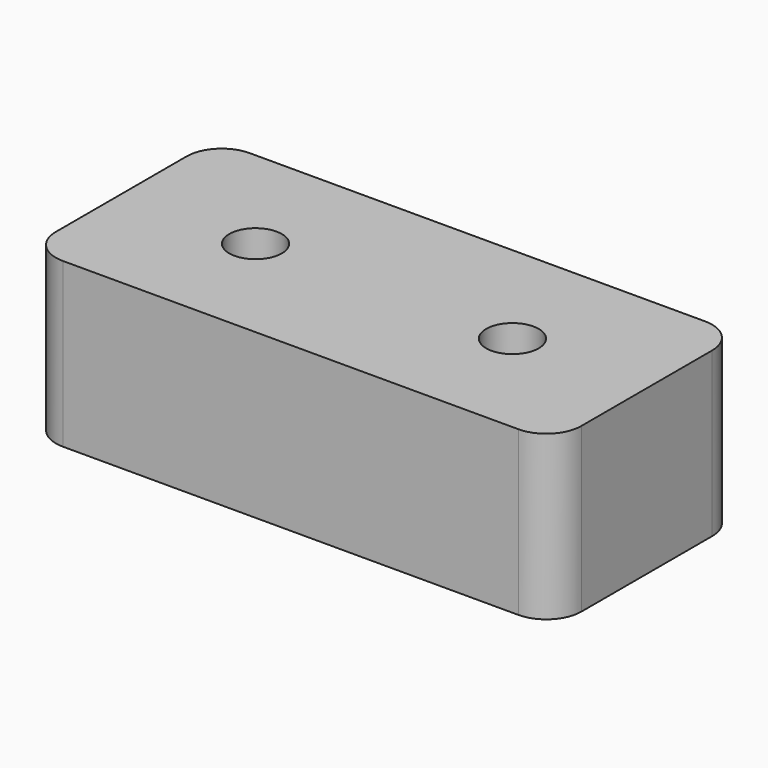
from build123d import *

# Parameters (mm, degrees)
F0_W     = 45
F0_H     = 20
F0_R     = 2.25
F1_DEPTH = 14
F2_R     = 3


with BuildPart() as f1:
    # F0 (on Top) → F1 (new body)
    with BuildSketch(Plane.XY):
        Rectangle(F0_W, F0_H)
        with Locations((-11, 0)):
            Circle(F0_R, mode=Mode.SUBTRACT)
        with Locations((11, 0)):
            Circle(F0_R, mode=Mode.SUBTRACT)
    extrude(amount=F1_DEPTH)

    # F2
    f2_edges = [f1.edges().sort_by_distance(p)[0] for p in [
        (22.5, -10, 7),
        (22.5, 10, 7),
        (-22.5, 10, 7),
        (-22.5, -10, 7),
    ]]
    fillet(f2_edges, radius=F2_R)


solid = f1.part
